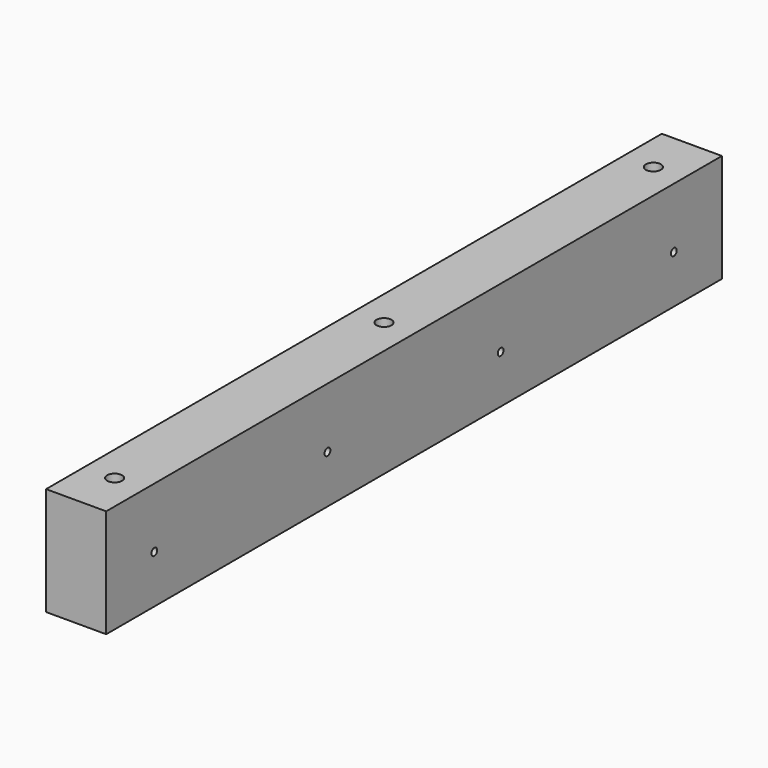
from build123d import *

# Parameters (mm, degrees)
F0_W     = 31.75
F0_H     = 57.15
F1_DEPTH = 406.4
F4_D     = 7.9375
F4_DEPTH = 20.6883
F4_TIP   = 2.3846655818
F5_D     = 3.7973
F5_DEPTH = 19.0881
F5_TIP   = 1.1408240143


with BuildPart() as f1:
    # F0 (on Front) → F1 (new body)
    with BuildSketch(Plane.XZ):
        with Locations((15.875, 28.575)):
            Rectangle(F0_W, F0_H)
    extrude(amount=F1_DEPTH)

    # F4
    with Locations(Plane.XY.offset(57.15)):
        with Locations((15.875, -381), (15.875, -203.2), (15.875, -25.4)):
            Hole(F4_D / 2, depth=F4_DEPTH)
            with Locations((0, 0, -(F4_DEPTH + F4_TIP / 2))):  # 118° drill point
                Cone(0, F4_D / 2, F4_TIP, mode=Mode.SUBTRACT)

    # F5
    with Locations(Plane.YZ.offset(31.75)):
        with Locations((-374.65, 25.4), (-146.05, 25.4), (-31.75, 25.4), (-260.35, 25.4)):
            Hole(F5_D / 2, depth=F5_DEPTH)
            with Locations((0, 0, -(F5_DEPTH + F5_TIP / 2))):  # 118° drill point
                Cone(0, F5_D / 2, F5_TIP, mode=Mode.SUBTRACT)


solid = f1.part
